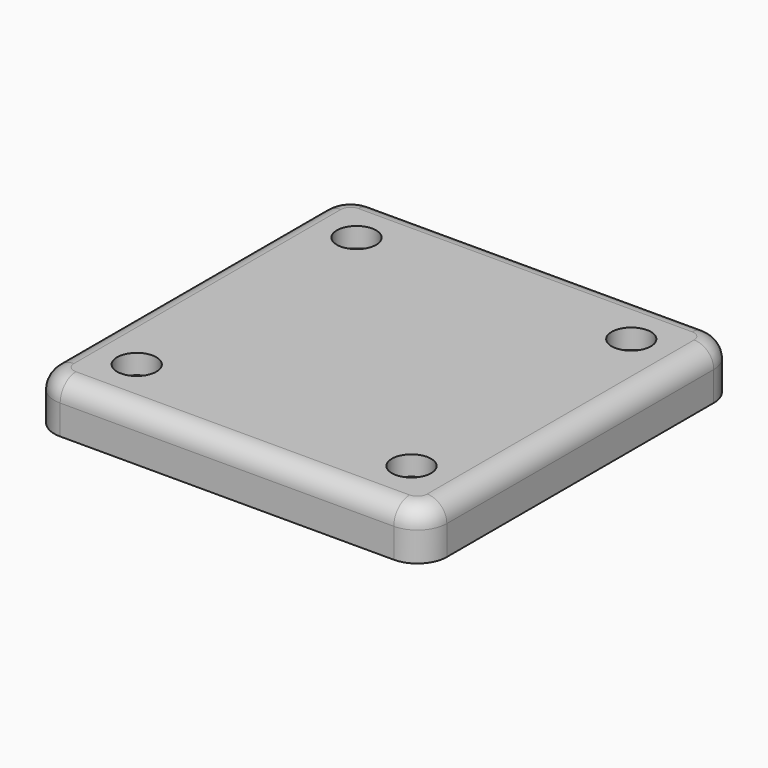
from build123d import *

# Parameters (mm, degrees)
CYLINDER002_R     = 2
CYLINDER002_DEPTH = 2
ARRAY001_X_COUNT  = 2
ARRAY001_X_PITCH  = 28
ARRAY001_Y_COUNT  = 2
ARRAY001_Y_PITCH  = 28
CYLINDER001_R     = 1
CYLINDER001_DEPTH = 10
ARRAY_X_COUNT     = 2
ARRAY_X_PITCH     = 28
ARRAY_Y_COUNT     = 2
ARRAY_Y_PITCH     = 28
BOX_W             = 40
BOX_H             = 40
BOX_DEPTH         = 5
FILLET_R          = 3
FILLET001_R       = 2


with BuildPart() as array001:
    # Cylinder002 → Cylinder002 (new body)
    with BuildSketch(Plane(origin=(6, 6, 3), x_dir=(1, 0, 0), z_dir=(0, 0, 1))):
        Circle(CYLINDER002_R)
    extrude(amount=CYLINDER002_DEPTH)

    # Array001 X: Array001 ×2


with BuildPart() as array001_1:
    add(array001.part)
    with Locations(*[(i * ARRAY001_X_PITCH, 0, 0) for i in range(1, ARRAY001_X_COUNT)]):
        add(array001.part)

    # Array001 Y: Array001 ×2


with BuildPart() as array001_2:
    add(array001_1.part)
    with Locations(*[(0, i * ARRAY001_Y_PITCH, 0) for i in range(1, ARRAY001_Y_COUNT)]):
        add(array001_1.part)


with BuildPart() as array:
    # Cylinder001 → Cylinder001 (new body)
    with BuildSketch(Plane(origin=(6, 6, -2), x_dir=(1, 0, 0), z_dir=(0, 0, 1))):
        Circle(CYLINDER001_R)
    extrude(amount=CYLINDER001_DEPTH)

    # Array X: Array ×2


with BuildPart() as array_1:
    add(array.part)
    with Locations(*[(i * ARRAY_X_PITCH, 0, 0) for i in range(1, ARRAY_X_COUNT)]):
        add(array.part)

    # Array Y: Array ×2


with BuildPart() as array_2:
    add(array_1.part)
    with Locations(*[(0, i * ARRAY_Y_PITCH, 0) for i in range(1, ARRAY_Y_COUNT)]):
        add(array_1.part)


with BuildPart() as cut002:
    # Box → Box (new body)
    with BuildSketch(Plane.XY):
        with Locations((20, 20)):
            Rectangle(BOX_W, BOX_H)
    extrude(amount=BOX_DEPTH)

    # Fillet
    fillet_edges = [cut002.edges().sort_by_distance(p)[0] for p in [
        (0, 0, 2.5),
        (0, 40, 2.5),
        (40, 0, 2.5),
        (40, 40, 2.5),
    ]]
    fillet(fillet_edges, radius=FILLET_R)

    # Fillet001
    fillet001_edges = [cut002.edges().sort_by_distance(p)[0] for p in [
        (0, 20, 5),
        (0.87868, 0.87868, 5),
        (0.87868, 39.12132, 5),
        (20, 0, 5),
        (20, 40, 5),
        (39.12132, 0.87868, 5),
        (39.12132, 39.12132, 5),
        (40, 20, 5),
    ]]
    fillet(fillet001_edges, radius=FILLET001_R)

    # Cut001: cut Array
    add(array_2.part, mode=Mode.SUBTRACT)

    # Cut002: cut Array001
    add(array001_2.part, mode=Mode.SUBTRACT)


solid = cut002.part
